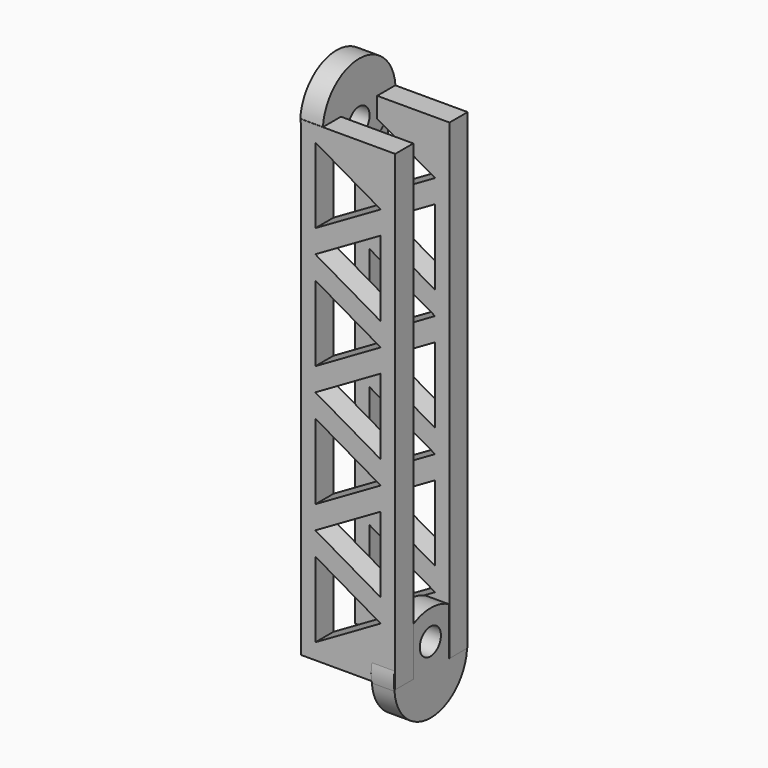
from build123d import *

# Parameters (mm, degrees)
SKETCH019_R      = 3.5
EXTRUDE018_DEPTH = 6
SKETCH018_W      = 25
SKETCH018_H      = 125
EXTRUDE017_DEPTH = 6
SKETCH020_R      = 3.5
EXTRUDE019_DEPTH = 6


with BuildPart() as union_parte_arriba:
    # Sketch019 → Extrude018 (new body)
    with BuildSketch(Plane.YZ):
        with BuildLine():
            ThreePointArc((82.036674, 148.659016), (70.036674, 159.65499), (58.036674, 148.659016))
            ThreePointArc((58.036674, 148.659016), (70.036674, 137.663042), (82.036674, 148.659016))
        make_face()
        with Locations((69.991982, 144.998688)):
            Circle(SKETCH019_R, mode=Mode.SUBTRACT)
    extrude(amount=EXTRUDE018_DEPTH)


with BuildPart() as union_parte_arriba_1:
    # Extrude018 placement: moved
    add(union_parte_arriba.part.moved(Location((72, 0, 0))))


with BuildPart() as palo_triangular:
    # Sketch018 → Extrude017 (new body)
    with BuildSketch(Plane.XZ):
        with Locations((84.677579, 86.042568)):
            Rectangle(SKETCH018_W, SKETCH018_H)
        Polygon((76.017071, 47.742568), (76.017071, 27.742568), (93.337579, 37.742568), align=None, mode=Mode.SUBTRACT)
        Polygon((76.017071, 53.842568), (93.337579, 43.842568), (93.337579, 63.842568), align=None, mode=Mode.SUBTRACT)
        Polygon((76.017071, 79.942568), (76.017071, 59.942568), (93.337579, 69.942568), align=None, mode=Mode.SUBTRACT)
        Polygon((76.017071, 112.142568), (76.017071, 92.142568), (93.337579, 102.142568), align=None, mode=Mode.SUBTRACT)
        Polygon((76.017071, 144.342568), (76.017071, 124.342568), (93.337579, 134.342568), align=None, mode=Mode.SUBTRACT)
        Polygon((76.017071, 86.042568), (93.337579, 96.042568), (93.337579, 76.042568), align=None, mode=Mode.SUBTRACT)
        Polygon((76.017071, 118.242568), (93.337579, 128.242568), (93.337579, 108.242568), align=None, mode=Mode.SUBTRACT)
    extrude(amount=EXTRUDE017_DEPTH)


with BuildPart() as palo_triangular_1:
    # Extrude017 placement: moved
    add(palo_triangular.part.moved(Location((0, 64, 0))))


with BuildPart() as palo_triangular001:
    # Link019 base: copy of Palo triangular
    add(palo_triangular_1.part)


with BuildPart() as palo_triangular001_1:
    # Link019 placement: moved
    add(palo_triangular001.part.moved(Location((0, 18.000008, 0))))


with BuildPart() as obj1:
    # Sketch020 → Extrude019 (new body)
    with BuildSketch(Plane.YZ):
        with BuildLine():
            ThreePointArc((57.996231, 23.111303), (69.948323, 12.063047), (81.996231, 23.006739))
            ThreePointArc((81.996231, 23.006739), (70.060056, 37.708327), (57.996231, 23.111303))
        make_face()
        with Locations((69.867134, 29.92848)):
            Circle(SKETCH020_R, mode=Mode.SUBTRACT)
    extrude(amount=EXTRUDE019_DEPTH)


with BuildPart() as obj1_1:
    # Extrude019 placement: moved
    add(obj1.part.moved(Location((91, 0, 0))))

    # Fusion023: union union parte arriba, Palo triangular001, Palo triangular
    add(union_parte_arriba_1.part)
    add(palo_triangular001_1.part)
    add(palo_triangular_1.part)


with BuildPart() as obj1_2:
    # Fusion023 placement: moved
    add(obj1_1.part.moved(Location((-10, -24, 0))))


solid = obj1_2.part
